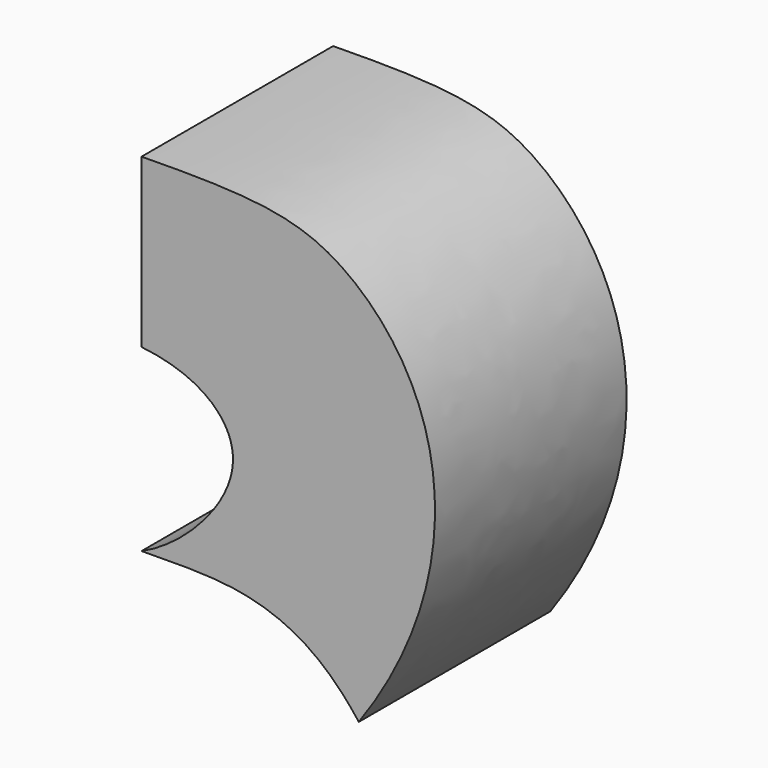
from build123d import *

# Parameters (mm, degrees)
F1_DEPTH = 100


with BuildPart() as f1:
    # F0 (on Front) → F1 (new body)
    with BuildSketch(Plane.XZ):
        with BuildLine():
            Line((-40.1884864724, 89.4004583034), (-40.1884864724, 19.4004583034))
            add(Edge.make_bspline(
                [(-40.1884864724, 19.4004583034), (-15.6311679339, 16.8662443618), (14.8892106936, -9.2755684263), (-22.8341085156, -47.9817610561), (-40.1884864724, -55.5995416966)],
                knots=[0, 0, 0, 0, 0.4765976088, 1, 1, 1, 1], degree=3))
            add(Edge.make_bspline(
                [(-40.1884864724, -55.5995416966), (-15.5867741706, -55.1760925494), (10.5519173859, -55.8451014856), (37.2242858644, -71.4152674762), (50.5493704522, -88.9044446078)],
                knots=[0, 0, 0, 0, 0.5051859746, 1, 1, 1, 1], degree=3))
            add(Edge.make_bspline(
                [(50.5493704522, -88.9044446078), (83.028293229, -43.2792702034), (90.8916825969, 28.4293990994), (40.2820870114, 86.5405581899), (5.5633742195, 90.0782171685), (-40.1884864724, 89.4004583034)],
                knots=[0, 0, 0, 0, 0.3965605783, 0.6725204019, 1, 1, 1, 1], degree=3))
        make_face()
    extrude(amount=F1_DEPTH)


solid = f1.part
